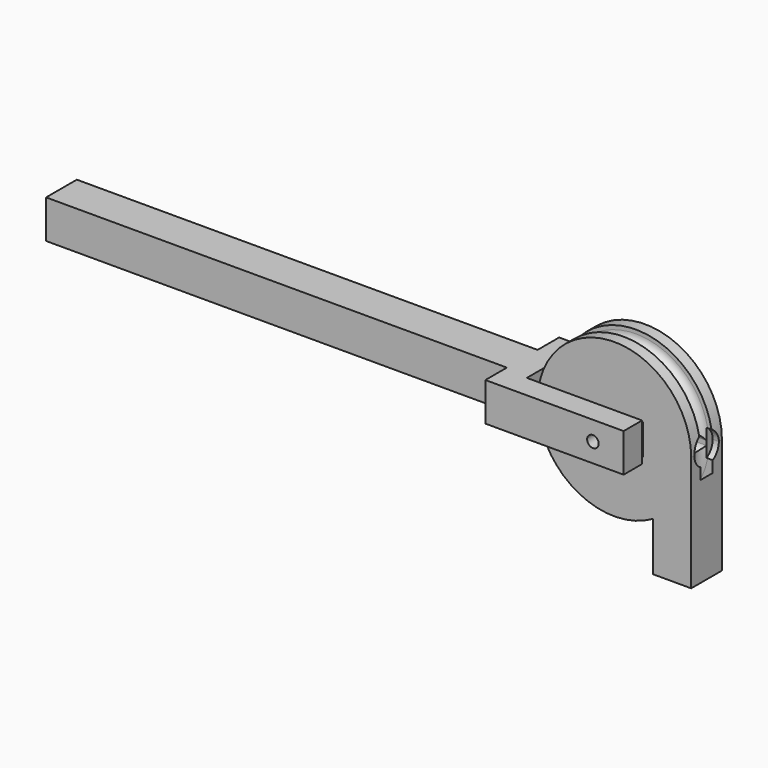
from build123d import *

# Parameters (mm, degrees)
F0_R           = 0.75
F0_W           = 1.7
F0_H           = 4
F1_DEPTH       = 5
F6_DEPTH       = 0.8
F8_DEPTH       = 8
F10_DEPTH      = 2.5
F10_DEPTH_BACK = 2.5
F11_R          = 0.75
F12_DEPTH      = 12


with BuildPart() as f1:
    # F0 (on Front) → F1 (new body)
    with BuildSketch(Plane.XZ):
        with BuildLine():
            Line((10, -15), (10, 0))
            ThreePointArc((10, 0), (-8.6602540378, 5), (5, -8.6602540378))
            Line((5, -8.6602540378), (5, -15))
            Line((5, -15), (10, -15))
        make_face()
        Circle(F0_R, mode=Mode.SUBTRACT)
        with Locations((2.9064579867, 0)):
            Rectangle(F0_W, F0_H, mode=Mode.SUBTRACT)
    extrude(amount=F1_DEPTH)

    # F3 (on Right) → F4 (revolve, cut)
    with BuildSketch(Plane.YZ):
        with BuildLine():
            Line((-1.5, 10), (-1.5, 10.5))
            Line((-1.5, 10.5), (-3.5, 10.5))
            Line((-3.5, 10.5), (-3.5, 10))
            Line((-3.5, 10), (-3.5, 9.5))
            ThreePointArc((-3.5, 9.5), (-2.5, 8.5), (-1.5, 9.5))
            Line((-1.5, 9.5), (-1.5, 10))
        make_face()
    revolve(axis=Axis((0, -2.5, 0), (0, -1, 0)), mode=Mode.SUBTRACT)

    # F5 (on face) → F6 (cut)
    with BuildSketch(Plane.YZ.offset(10)):
        with BuildLine():
            Line((-3.5, 0), (-4.5, 0))
            ThreePointArc((-4.5, 0), (-4.2320508076, -1), (-3.5, -1.7320508076))
            Line((-3.5, -1.7320508076), (-3.5, 0))
        make_face()
        with BuildLine():
            ThreePointArc((-1.5, -1.7320508076), (-0.7679491924, -1), (-0.5, 0))
            Line((-0.5, 0), (-1.5, 0))
            Line((-1.5, 0), (-1.5, -1.7320508076))
        make_face()
        with BuildLine():
            Line((-1.5, 0), (-0.5, 0))
            ThreePointArc((-0.5, 0), (-2.5, 2), (-4.5, 0))
            Line((-4.5, 0), (-3.5, 0))
            Line((-3.5, 0), (-3.5, -1.7320508076))
            ThreePointArc((-3.5, -1.7320508076), (-2.5, -2), (-1.5, -1.7320508076))
            Line((-1.5, -1.7320508076), (-1.5, 0))
        make_face()
    extrude(amount=-F6_DEPTH, mode=Mode.SUBTRACT)

    # F7 (on face) → F8 (cut)
    with BuildSketch(Plane.YZ.offset(9.2)):
        with BuildLine():
            add(Edge.make_bspline(
                [(-1.5445840368, 0.295263166), (-1.5450482012, 0.2484405202), (-1.5454297015, 0.2016073034), (-1.5457263882, 0.1547656753), (-1.5459366901, 0.1079178993), (-1.5460596334, 0.0610663461), (-1.5460948535, 0.0142134972), (-1.5460007359, -0.0701643408), (-1.5459027565, -0.1076899148), (-1.545748778, -0.1452134741), (-1.5455391734, -0.1827337648), (-1.5452745645, -0.2202495788), (-1.5449558177, -0.2577597532), (-1.5445840375, -0.2952631684)],
                knots=[0.4383158786, 0.4383158786, 0.4383158786, 0.4383158786, 0.4383158786, 0.4383158786, 0.4383158786, 0.4383158786, 0.5068188161, 0.5068188161, 0.5068188161, 0.5068188161, 0.5068188161, 0.5068188161, 0.5616870319, 0.5616870319, 0.5616870319, 0.5616870319, 0.5616870319, 0.5616870319, 0.5616870319, 0.5616870319], degree=7))
            ThreePointArc((-1.5445840368, 0.295263166), (-2.4999999988, 1), (-3.4554159625, 0.2952631684))
            add(Edge.make_bspline(
                [(-3.4554159632, -0.295263166), (-3.4549517988, -0.2484405202), (-3.4545702985, -0.2016073034), (-3.4542736118, -0.1547656753), (-3.4540633099, -0.1079178993), (-3.4539403666, -0.0610663461), (-3.4539051465, -0.0142134972), (-3.4539992641, 0.0701643408), (-3.4540972435, 0.1076899148), (-3.454251222, 0.1452134741), (-3.4544608266, 0.1827337648), (-3.4547254355, 0.2202495788), (-3.4550441823, 0.2577597532), (-3.4554159625, 0.2952631684)],
                knots=[0.4383158786, 0.4383158786, 0.4383158786, 0.4383158786, 0.4383158786, 0.4383158786, 0.4383158786, 0.4383158786, 0.5068188161, 0.5068188161, 0.5068188161, 0.5068188161, 0.5068188161, 0.5068188161, 0.5616870319, 0.5616870319, 0.5616870319, 0.5616870319, 0.5616870319, 0.5616870319, 0.5616870319, 0.5616870319], degree=7))
            ThreePointArc((-3.4554159632, -0.295263166), (-2.5000000012, -1), (-1.5445840375, -0.2952631684))
        make_face()
    extrude(amount=-F8_DEPTH, mode=Mode.SUBTRACT)


with BuildPart() as f10:
    # F9 (on plane+point) → F10 (new body, two sides)
    with BuildSketch(Plane(origin=(0, 0, 0), x_dir=(1, 0, 0), z_dir=(0, 0, -1))) as f10_sk:
        Polygon((4, -3.5), (4, -0.5), (-11, -0.5), (-11, 2.5), (-74, 2.5), (-74, 0), (-14, 0), (-14, -3.5), align=None)
        Polygon((-74, 2.5), (-11, 2.5), (-11, 5.5), (4, 5.5), (4, 8.5), (-14, 8.5), (-14, 5), (-74, 5), align=None)
    extrude(amount=F10_DEPTH)
    extrude(f10_sk.sketch, amount=-F10_DEPTH_BACK)

    # F11 (on face) → F12 (cut, through all)
    with BuildSketch(Plane(origin=(0, 3.5, 0), x_dir=(-1, 0, 0), z_dir=(0, 1, 0))):
        Circle(F11_R)
    extrude(amount=-F12_DEPTH, mode=Mode.SUBTRACT)


solid = Compound([f1.part, f10.part])
